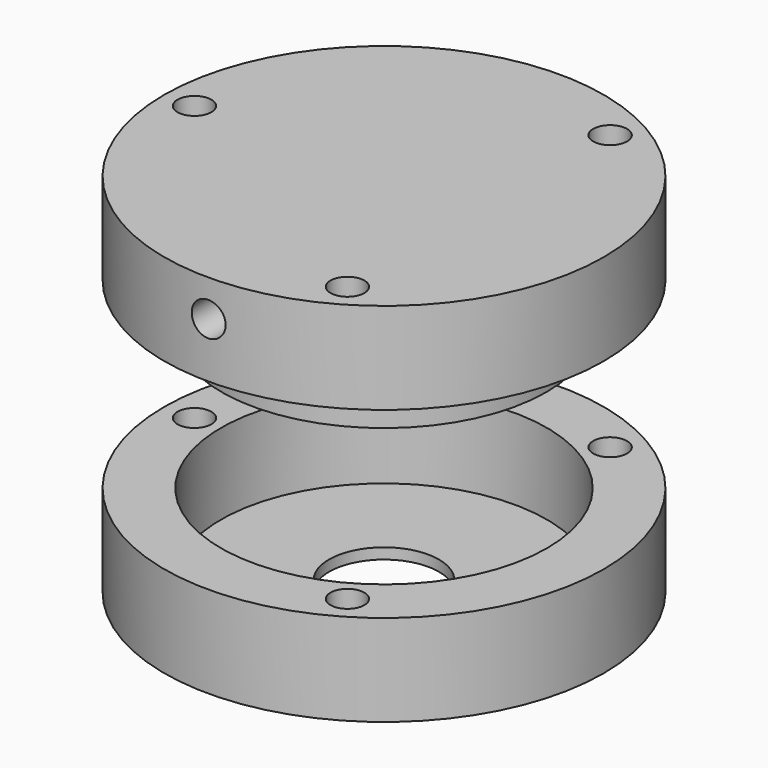
from build123d import *

# Parameters (mm, degrees)
F0_R      = 22.606
F0_R_2    = 7.62
F1_DEPTH  = 1.5
F0_R_3    = 30.48
F2_DEPTH  = 12.7
F3_R      = 2.3495
F4_DEPTH  = 12.7
F6_R      = 22.5425
F7_DEPTH  = 6.35
F6_R_2    = 30.48
F8_DEPTH  = 12.7
F9_R      = 2.3495
F10_DEPTH = 12.7
F11_R     = 7.8105
F11_R_2   = 5.4991
F12_DEPTH = 6.985
F11_R_3   = 3.81
F13_DEPTH = 16.51
F15_R     = 2.3495
F16_DEPTH = 68.581


with BuildPart() as f1:
    # F0 (on Top) → F1 (new body)
    with BuildSketch(Plane.XY):
        Circle(F0_R)
        Circle(F0_R_2, mode=Mode.SUBTRACT)
    extrude(amount=F1_DEPTH)

    # F0 (on Top) → F2 (join)
    with BuildSketch(Plane.XY):
        Circle(F0_R_3)
        Circle(F0_R, mode=Mode.SUBTRACT)
    extrude(amount=F2_DEPTH)

    # F3 (on face) → F4 (cut, through all)
    with BuildSketch(Plane.XY.offset(12.7)):
        with Locations((-26.289, 0)):
            Circle(F3_R)
        with Locations((13.1445, 22.7669418401)):
            Circle(F3_R)
        with Locations((13.1445, -22.7669418401)):
            Circle(F3_R)
    extrude(amount=-F4_DEPTH, mode=Mode.SUBTRACT)


with BuildPart() as f7:
    # F6 (on offset) → F7 (new body)
    with BuildSketch(Plane.XY.offset(38.1)):
        Circle(F6_R)
    extrude(amount=-F7_DEPTH)

    # F6 (on offset) → F8 (join)
    with BuildSketch(Plane.XY.offset(38.1)):
        Circle(F6_R_2)
        Circle(F6_R, mode=Mode.SUBTRACT)
        Circle(F6_R)
    extrude(amount=F8_DEPTH)

    # F9 (on face) → F10 (cut, through all)
    with BuildSketch(Plane.XY.offset(50.8)):
        with Locations((13.1445, 22.7669418401)):
            Circle(F9_R)
        with Locations((-26.289, 0)):
            Circle(F9_R)
        with Locations((13.1445, -22.7669418401)):
            Circle(F9_R)
    extrude(amount=-F10_DEPTH, mode=Mode.SUBTRACT)

    # F11 (on face) → F12 (cut)
    with BuildSketch(Plane(origin=(0, 0, 31.75), x_dir=(1, 0, 0), z_dir=(0, 0, -1))):
        Circle(F11_R)
        Circle(F11_R_2, mode=Mode.SUBTRACT)
    extrude(amount=-F12_DEPTH, mode=Mode.SUBTRACT)

    # F11 (on face) → F13 (cut)
    with BuildSketch(Plane(origin=(0, 0, 31.75), x_dir=(1, 0, 0), z_dir=(0, 0, -1))):
        Circle(F11_R_3)
    extrude(amount=-F13_DEPTH, mode=Mode.SUBTRACT)

    # F15 (on offset) → F16 (cut, through all)
    with BuildSketch(Plane.XZ.offset(38.1)):
        with Locations((0, 45.72)):
            Circle(F15_R)
    extrude(amount=-F16_DEPTH, mode=Mode.SUBTRACT)


solid = Compound([f1.part, f7.part])
